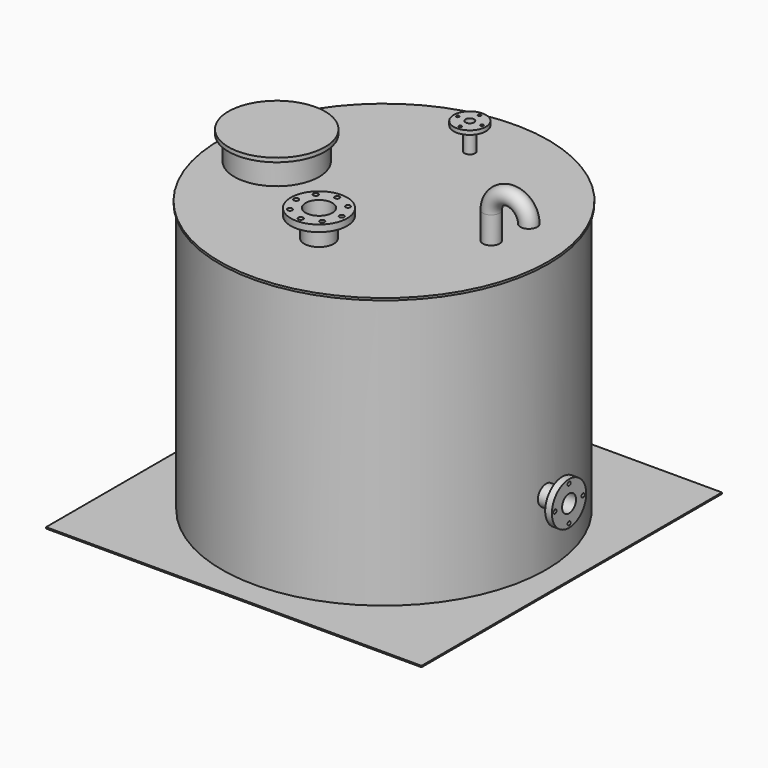
from build123d import *

# Parameters (mm, degrees)
F2_W      = 1400
F2_H      = 1400
F2_R      = 605
F3_DEPTH  = 5
F5_DEPTH  = 25
F6_R      = 158
F7_DEPTH  = 90
F8_R      = 180
F9_DEPTH  = 15
F10_R     = 20
F10_R_2   = 55
F11_DEPTH = 100
F12_R     = 60
F12_R_2   = 5.5
F13_DEPTH = 15
F14_R     = 16
F15_DEPTH = 500
F16_R     = 105
F16_R_2   = 9
F17_DEPTH = 25
F18_R     = 50
F19_DEPTH = 500
F20_R     = 31.5
F23_R     = 37.5
F24_DEPTH = 690
F25_R     = 80
F25_R_2   = 7
F26_DEPTH = 25
F27_R     = 32.5
F28_DEPTH = 500


with BuildPart() as f1:
    # F0 (on Front) → F1 (revolve)
    with BuildSketch(Plane.XZ):
        Polygon((0, 1014), (0, 0), (605, 0), (605, 1006), (613, 1006), (613, 1014), (605, 1014), align=None)
    revolve(axis=Axis((0, 0, 507), (0, 0, 1)))

    # F2 (on face) → F3 (join)
    with BuildSketch(Plane(origin=(0, 0, 0), x_dir=(1, 0, 0), z_dir=(0, 0, -1))):
        Rectangle(F2_W, F2_H)
        Circle(F2_R, mode=Mode.SUBTRACT)
        Circle(F2_R)
    extrude(amount=F3_DEPTH)

    # F4 (on face) → F5 (cut)
    with BuildSketch(Plane.XY):
        with BuildLine():
            Line((-550, 532), (-700, 532))
            Line((-700, 532), (-700, 432))
            Line((-700, 432), (-550, 432))
            ThreePointArc((-550, 432), (-535.857864, 437.857864), (-530, 452))
            Line((-530, 452), (-530, 512))
            ThreePointArc((-530, 512), (-535.857864, 526.142136), (-550, 532))
        make_face()
    extrude(amount=-F5_DEPTH, mode=Mode.SUBTRACT)

    # F6 (on face) → F7 (join)
    with BuildSketch(Plane.XY.offset(1014)):
        with Locations((-400, 0)):
            Circle(F6_R)
    extrude(amount=F7_DEPTH)

    # F8 (on face) → F9 (join)
    with BuildSketch(Plane.XY.offset(1104)):
        with Locations((-400, 0)):
            Circle(F8_R)
    extrude(amount=F9_DEPTH)

    # F10 (on face) → F11 (join)
    with BuildSketch(Plane.XY.offset(1014)):
        with Locations((0, 400)):
            Circle(F10_R)
        with Locations((0, -303)):
            Circle(F10_R_2)
    extrude(amount=F11_DEPTH)

    # F12 (on face) → F13 (join)
    with BuildSketch(Plane.XY.offset(1114)):
        with Locations((0, 400)):
            Circle(F12_R)
        with Locations((0, 355)):
            Circle(F12_R_2, mode=Mode.SUBTRACT)
        with Locations((-45, 400)):
            Circle(F12_R_2, mode=Mode.SUBTRACT)
        with Locations((45, 400)):
            Circle(F12_R_2, mode=Mode.SUBTRACT)
        with Locations((0, 445)):
            Circle(F12_R_2, mode=Mode.SUBTRACT)
    extrude(amount=-F13_DEPTH)

    # F14 (on face) → F15 (cut)
    with BuildSketch(Plane.XY.offset(1114)):
        with Locations((0, 400)):
            Circle(F14_R)
    extrude(amount=-F15_DEPTH, mode=Mode.SUBTRACT)

    # F16 (on face) → F17 (join)
    with BuildSketch(Plane.XY.offset(1114)):
        with Locations((0, -303)):
            Circle(F16_R)
        with Locations((-60.104076, -363.104076)):
            Circle(F16_R_2, mode=Mode.SUBTRACT)
        with Locations((0, -388)):
            Circle(F16_R_2, mode=Mode.SUBTRACT)
        with Locations((60.104076, -363.104076)):
            Circle(F16_R_2, mode=Mode.SUBTRACT)
        with Locations((-85, -303)):
            Circle(F16_R_2, mode=Mode.SUBTRACT)
        with Locations((-60.104076, -242.895924)):
            Circle(F16_R_2, mode=Mode.SUBTRACT)
        with Locations((85, -303)):
            Circle(F16_R_2, mode=Mode.SUBTRACT)
        with Locations((0, -218)):
            Circle(F16_R_2, mode=Mode.SUBTRACT)
        with Locations((60.104076, -242.895924)):
            Circle(F16_R_2, mode=Mode.SUBTRACT)
    extrude(amount=-F17_DEPTH)

    # F18 (on face) → F19 (cut)
    with BuildSketch(Plane.XY.offset(1114)):
        with Locations((0, -303)):
            Circle(F18_R)
    extrude(amount=-F19_DEPTH, mode=Mode.SUBTRACT)

    # F22: sweep along a path in F21
    with BuildLine(Plane.XZ) as f22_path:
        Line((400, 1014), (400, 1114))
        ThreePointArc((400, 1114), (470, 1184), (540, 1114))
    # F20 (on face) → F22 (sweep)
    with BuildSketch(Plane.XY.offset(1014)):
        with Locations((400, 0)):
            Circle(F20_R)
    sweep(path=f22_path.line)

    # F23 (on Right) → F24 (join)
    with BuildSketch(Plane.YZ):
        with Locations((0, 245)):
            Circle(F23_R)
    extrude(amount=F24_DEPTH)

    # F25 (on face) → F26 (join)
    with BuildSketch(Plane.YZ.offset(690)):
        with Locations((0, 245)):
            Circle(F25_R)
        with Locations((0, 180)):
            Circle(F25_R_2, mode=Mode.SUBTRACT)
        with Locations((-65, 245)):
            Circle(F25_R_2, mode=Mode.SUBTRACT)
        with Locations((65, 245)):
            Circle(F25_R_2, mode=Mode.SUBTRACT)
        with Locations((0, 310)):
            Circle(F25_R_2, mode=Mode.SUBTRACT)
    extrude(amount=-F26_DEPTH)

    # F27 (on face) → F28 (cut)
    with BuildSketch(Plane.YZ.offset(690)):
        with Locations((0, 245)):
            Circle(F27_R)
    extrude(amount=-F28_DEPTH, mode=Mode.SUBTRACT)


solid = f1.part
